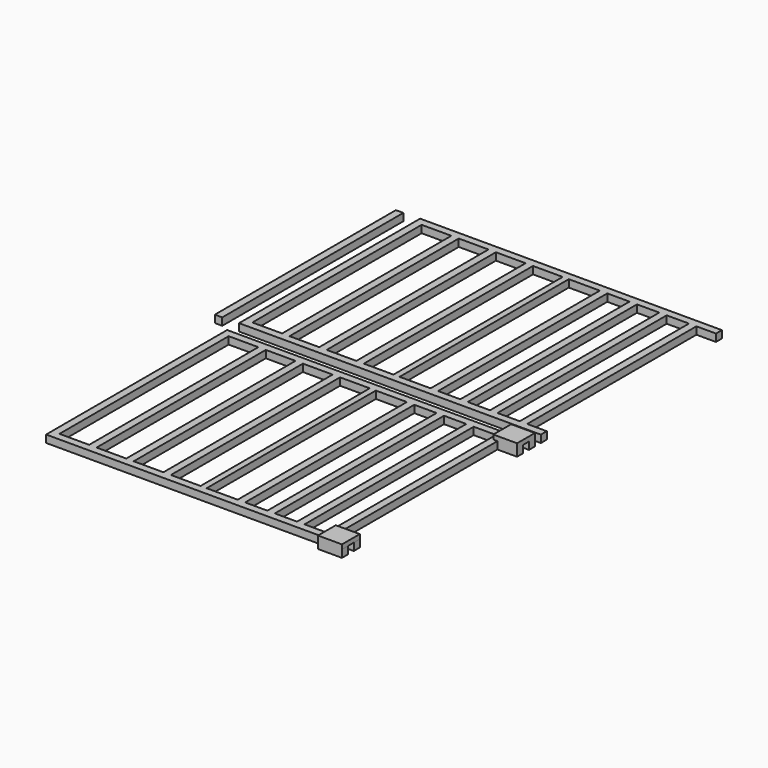
from build123d import *

# Parameters (mm, degrees)
F0_W     = 20
F0_H     = 142.4
F0_W_2   = 20.9
F0_W_3   = 15
F1_DEPTH = 5
F2_W     = 16
F2_H     = 15
F2_W_2   = 16.148469
F3_DEPTH = 3
F4_W     = 5
F4_H     = 152.4
F5_DEPTH = 5


with BuildPart() as f1:
    # F0 (on Top) → F1 (new body)
    with BuildSketch(Plane.XY):
        Polygon((102.2, 71.4), (102.2, 76.4), (-101, 76.4), (-101, -76), (102.2, -76), (102.2, -71), (89, -71), (89, 71.4), align=None)
        with Locations((-86, 0.2)):
            Rectangle(F0_W, F0_H, mode=Mode.SUBTRACT)
        with Locations((-61, 0.2)):
            Rectangle(F0_W, F0_H, mode=Mode.SUBTRACT)
        with Locations((-36, 0.2)):
            Rectangle(F0_W, F0_H, mode=Mode.SUBTRACT)
        with Locations((-11, 0.2)):
            Rectangle(F0_W, F0_H, mode=Mode.SUBTRACT)
        with Locations((13.55, 0.2)):
            Rectangle(F0_W_2, F0_H, mode=Mode.SUBTRACT)
        with Locations((36.5, 0.2)):
            Rectangle(F0_W_3, F0_H, mode=Mode.SUBTRACT)
        with Locations((56.5, 0.2)):
            Rectangle(F0_W_3, F0_H, mode=Mode.SUBTRACT)
        with Locations((76.5, 0.2)):
            Rectangle(F0_W_3, F0_H, mode=Mode.SUBTRACT)
        Polygon((-101, -238.4), (86.2, -238.4), (86.2, -243.4), (102.2, -243.4), (102.2, -238.4), (94.2, -238.4), (94.2, -233.4), (102.2, -233.4), (102.2, -228.4), (89, -228.4), (89, -96), (102.2, -96), (102.2, -91), (94.2, -91), (94.2, -86), (102.2, -86), (102.2, -81), (86.2, -81), (86.2, -86), (-101, -86), align=None)
        with Locations((-86, -162.2)):
            Rectangle(F0_W, F0_H, mode=Mode.SUBTRACT)
        with Locations((-61, -162.2)):
            Rectangle(F0_W, F0_H, mode=Mode.SUBTRACT)
        with Locations((-36, -162.2)):
            Rectangle(F0_W, F0_H, mode=Mode.SUBTRACT)
        with Locations((-11, -162.2)):
            Rectangle(F0_W, F0_H, mode=Mode.SUBTRACT)
        with Locations((13.55, -162.2)):
            Rectangle(F0_W_2, F0_H, mode=Mode.SUBTRACT)
        with Locations((36.5, -162.2)):
            Rectangle(F0_W_3, F0_H, mode=Mode.SUBTRACT)
        with Locations((56.5, -162.2)):
            Rectangle(F0_W_3, F0_H, mode=Mode.SUBTRACT)
        with Locations((76.5, -162.2)):
            Rectangle(F0_W_3, F0_H, mode=Mode.SUBTRACT)
    extrude(amount=F1_DEPTH)

    # F2 (on face) → F3 (join)
    with BuildSketch(Plane.XY.offset(5)):
        with Locations((94.2, -88.5)):
            Rectangle(F2_W, F2_H)
        with Locations((94.125765, -235.9)):
            Rectangle(F2_W_2, F2_H)
    extrude(amount=F3_DEPTH)


with BuildPart() as f5:
    # F4 (on Top) → F5 (new body)
    with BuildSketch(Plane.XY):
        with Locations((-114.5, -0.2)):
            Rectangle(F4_W, F4_H)
    extrude(amount=F5_DEPTH)


solid = Compound([f1.part, f5.part])
